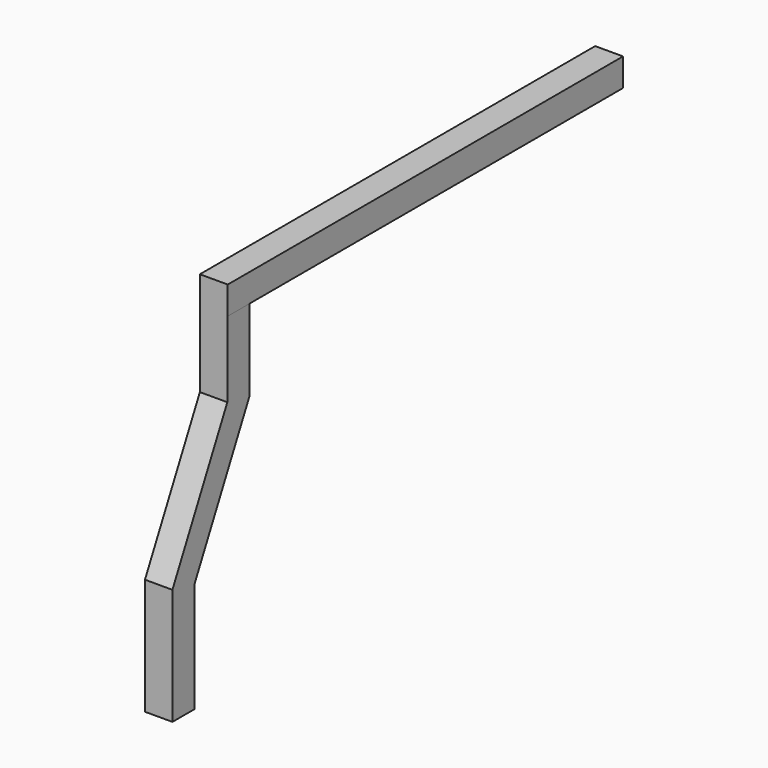
from build123d import *

# Parameters (mm, degrees)
F1_W     = 51.562
F1_H     = 51.581979
F2_DEPTH = 914.4
F4_DEPTH = 50.8


with BuildPart() as f2:
    # F1 (on face) → F2 (new body)
    with BuildSketch(Plane.XZ):
        with Locations((-2412.667142, 1037.629021)):
            Rectangle(F1_W, F1_H)
    extrude(amount=F2_DEPTH)

    # F3 (on face) → F4 (join)
    with BuildSketch(Plane(origin=(-2438.448142, 0, 0), x_dir=(0, -1, 0), z_dir=(-1, 0, 0))):
        Polygon((914.4, 1011.838032), (863.6, 1011.838032), (863.6, 859.438032), (990.6, 605.438032), (990.6, 402.238032), (1041.4, 402.238032), (1041.4, 617.430285), (914.4, 871.430285), align=None)
    extrude(amount=-F4_DEPTH)


solid = f2.part
